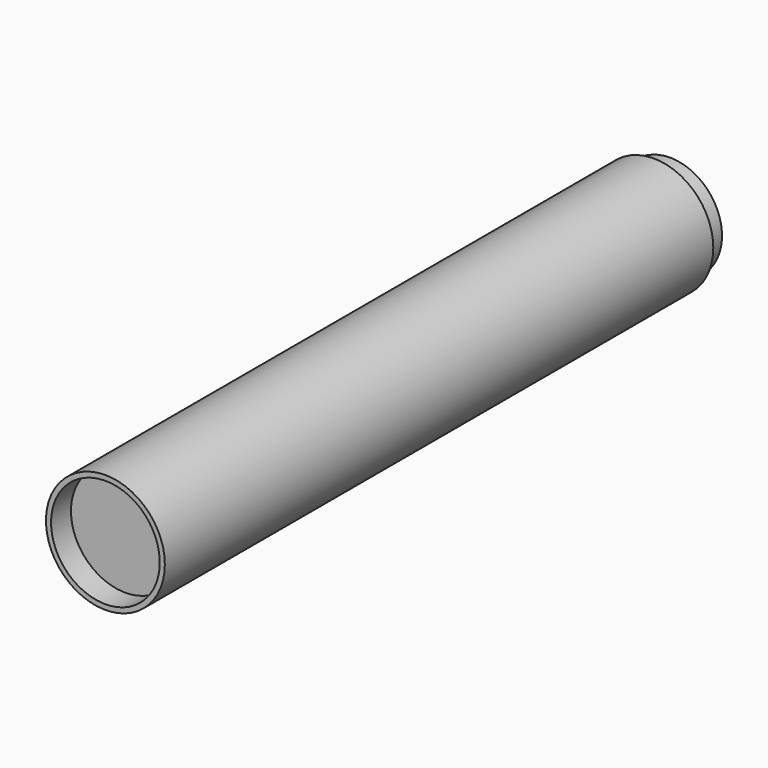
from build123d import *

# Parameters (mm, degrees)
F0_R      = 19.397954
F1_DEPTH  = 223.774
F2_R      = 16.963017
F3_DEPTH  = 6.604
F1_FACE_R = 19.397954
F4_DEPTH  = 5.08
F5_R      = 17.739386
F6_DEPTH  = 8.128


with BuildPart() as f1:
    # F0 (on Front) → F1 (new body)
    with BuildSketch(Plane.XZ):
        Circle(F0_R)
    extrude(amount=F1_DEPTH)

    # F2 (on face) → F3 (join)
    with BuildSketch(Plane(origin=(0, 0, 0), x_dir=(-1, 0, 0), z_dir=(0, 1, 0))):
        Circle(F2_R)
    extrude(amount=F3_DEPTH)

    # F1_face (on face) → F4 (join)
    with BuildSketch(Plane(origin=(0, 0, 0), x_dir=(1, 0, 0), z_dir=(0, 1, 0))):
        Circle(F1_FACE_R)
    extrude(amount=-F4_DEPTH)

    # F5 (on face) → F6 (cut)
    with BuildSketch(Plane.XZ.offset(223.774)):
        Circle(F5_R)
    extrude(amount=-F6_DEPTH, mode=Mode.SUBTRACT)


solid = f1.part
